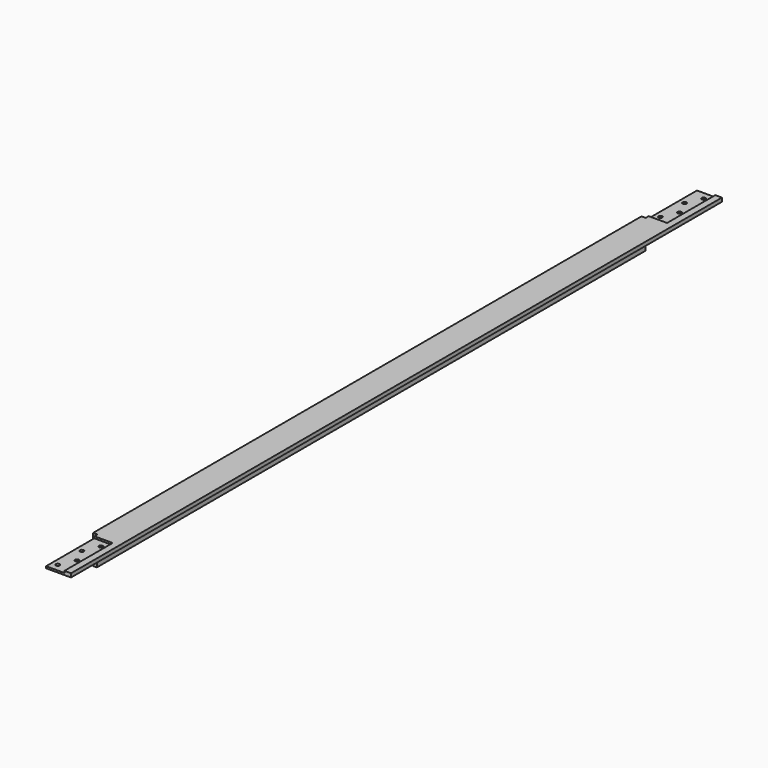
from build123d import *

# Parameters (mm, degrees)
F1_DEPTH = 685.8
F2_W     = 30.95625
F2_H     = 101.6
F2_R     = 3.175
F3_DEPTH = 3.175
F4_DEPTH = 49.2262
F5_D     = 6.35


with BuildPart() as f1:
    # F0 (on Front) → F1 (new body, symmetric)
    with BuildSketch(Plane.XZ):
        Polygon((-24.6126, -24.6126), (-18.2626, -24.6126), (-18.2626, 18.2626), (24.6126, 18.2626), (24.6126, 24.6126), (-24.6126, 24.6126), align=None)
    extrude(amount=F1_DEPTH, both=True)

    # F2 (on face) → F3 (cut)
    with BuildSketch(Plane.XY.offset(24.6126)):
        with Locations((-1.990725, -635)):
            Rectangle(F2_W, F2_H)
        with Locations((-7.94385, -673.1)):
            Circle(F2_R, mode=Mode.SUBTRACT)
        with Locations((-7.94385, -622.3)):
            Circle(F2_R, mode=Mode.SUBTRACT)
        with Locations((3.9624, -647.7)):
            Circle(F2_R, mode=Mode.SUBTRACT)
        with Locations((3.9624, -596.9)):
            Circle(F2_R, mode=Mode.SUBTRACT)
        with Locations((-1.990725, 635)):
            Rectangle(F2_W, F2_H)
        with Locations((-7.94385, 596.9)):
            Circle(F2_R, mode=Mode.SUBTRACT)
        with Locations((-7.94385, 647.7)):
            Circle(F2_R, mode=Mode.SUBTRACT)
        with Locations((3.9624, 622.3)):
            Circle(F2_R, mode=Mode.SUBTRACT)
        with Locations((3.9624, 673.1)):
            Circle(F2_R, mode=Mode.SUBTRACT)
    extrude(amount=-F3_DEPTH, mode=Mode.SUBTRACT)

    # F2 (on face) → F4 (cut, through all)
    with BuildSketch(Plane.XY.offset(24.6126)):
        Polygon((-24.6126, 685.8), (-24.6126, 577.85), (-17.46885, 577.85), (-17.46885, 584.2), (-17.46885, 685.8), align=None)
        Polygon((-24.6126, -577.85), (-24.6126, -685.8), (-17.46885, -685.8), (-17.46885, -584.2), (-17.46885, -577.85), align=None)
    extrude(amount=-F4_DEPTH, mode=Mode.SUBTRACT)

    # F5 (through all)
    with Locations(Plane.XY.offset(24.6126)):
        with Locations((-7.94385, -673.1), (3.9624, -647.7), (-7.94385, -622.3), (3.9624, -596.9), (-7.94385, 647.7), (3.9624, 673.1), (3.9624, 622.3), (-7.94385, 596.9)):
            Hole(F5_D / 2)


solid = f1.part
